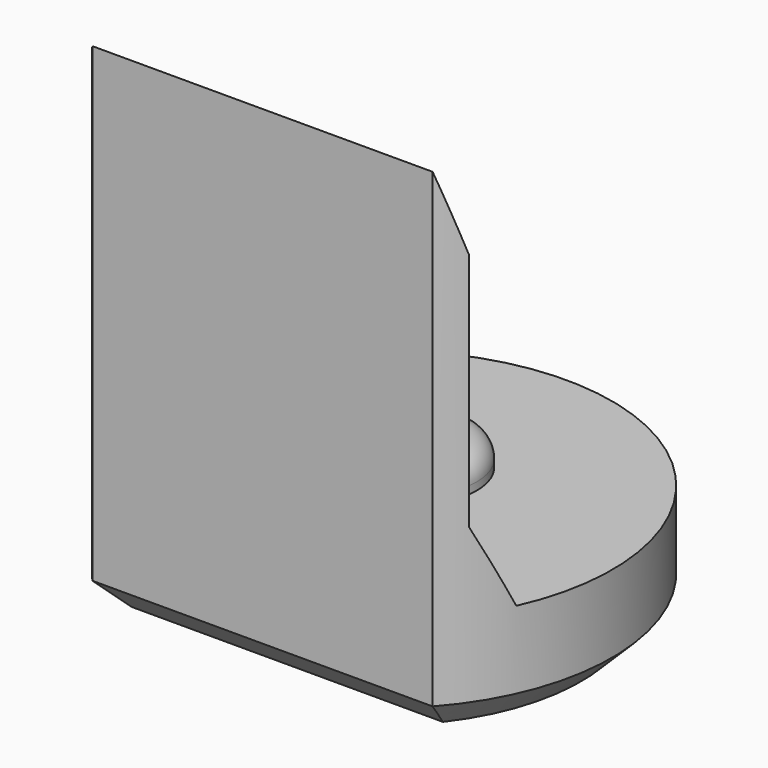
from build123d import *

# Parameters (mm, degrees)
PAD008_DEPTH         = 6.5
POCKET007_DEPTH      = 2.951
POCKET007_DEPTH_BACK = 2.951
SKETCH023_R          = 0.8
PAD009_DEPTH         = 0.4
FILLET001_R          = 0.3
CHAMFER007_SIZE      = 0.4


with BuildPart() as part:
    # Sketch022 → Pad008 (new body)
    with BuildSketch(Plane.XY):
        with BuildLine():
            ThreePointArc((2.2, -1.9653244007), (0, 2.95), (-2.2, -1.9653244007))
            Line((-2.2, -1.9653244007), (2.2, -1.9653244007))
        make_face()
    extrude(amount=PAD008_DEPTH)

    # Sketch024 → Pocket007 (cut, two sides)
    with BuildSketch(Plane.YZ) as pocket007_sk:
        Polygon((-1.97, 6.5), (-1.67, 5.5), (-1.67, 2.4), (-1.22, 1.4), (4, 1.4), (4, 6.5), align=None)
    extrude(amount=-POCKET007_DEPTH, mode=Mode.SUBTRACT)
    extrude(pocket007_sk.sketch, amount=POCKET007_DEPTH_BACK, mode=Mode.SUBTRACT)

    # Sketch023 (on Face7 of Pocket007) → Pad009 (join)
    with BuildSketch(Plane.XY.offset(1.4)):
        with Locations((0, 0.5)):
            Circle(SKETCH023_R)
    extrude(amount=PAD009_DEPTH)

    # Fillet001
    fillet001_edges = [part.edges().sort_by_distance(p)[0] for p in [
        (-0.8, 0.5, 1.8),
    ]]
    fillet(fillet001_edges, radius=FILLET001_R)

    # Chamfer007
    chamfer007_edges = [part.edges().sort_by_distance(p)[0] for p in [
        (0, 2.95, 0),
        (0, -1.965324, 0),
    ]]
    chamfer(chamfer007_edges, length=CHAMFER007_SIZE)


with BuildPart() as part_1:
    # Body085 placement: moved
    add(part.part.moved(Location((0, 30, 0))))


solid = part_1.part
